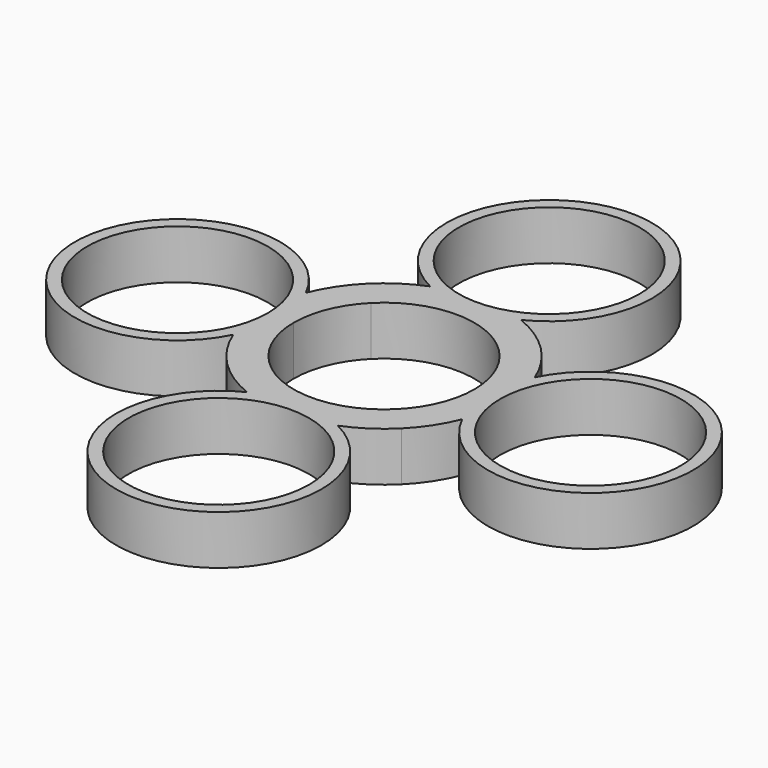
from build123d import *

# Parameters (mm, degrees)
F0_R     = 11
F1_DEPTH = 6


with BuildPart() as f1:
    # F0 (on Top) → F1 (new body)
    with BuildSketch(Plane.XY):
        with BuildLine():
            ThreePointArc((36.158809, 0), (25.158809, 11), (14.158809, 0))
            ThreePointArc((14.158809, 0), (25.158809, -11), (36.158809, 0))
        make_face()
        with Locations((-25.158809, 0)):
            Circle(F0_R)
        with BuildLine():
            ThreePointArc((5.524196, 13.945725), (0, 37.658809), (-5.524196, 13.945725))
            ThreePointArc((-5.524196, 13.945725), (-8.236389, 12.536423), (-10.606602, 10.606602))
            ThreePointArc((-10.606602, 10.606602), (-12.536423, 8.236389), (-13.945725, 5.524196))
            ThreePointArc((-13.945725, 5.524196), (-37.658809, 0), (-13.945725, -5.524196))
            ThreePointArc((-13.945725, -5.524196), (-12.536423, -8.236389), (-10.606602, -10.606602))
            ThreePointArc((-10.606602, -10.606602), (-8.236389, -12.536423), (-5.524196, -13.945725))
            ThreePointArc((-5.524196, -13.945725), (0, -37.658809), (5.524196, -13.945725))
            ThreePointArc((5.524196, -13.945725), (8.236389, -12.536423), (10.606602, -10.606602))
            ThreePointArc((10.606602, -10.606602), (12.536423, -8.236389), (13.945725, -5.524196))
            ThreePointArc((13.945725, -5.524196), (37.658809, 0), (13.945725, 5.524196))
            ThreePointArc((13.945725, 5.524196), (12.536423, 8.236389), (10.606602, 10.606602))
            ThreePointArc((10.606602, 10.606602), (8.236389, 12.536423), (5.524196, 13.945725))
        make_face()
        with Locations((0, -25.158809)):
            Circle(F0_R, mode=Mode.SUBTRACT)
        with Locations((-25.158809, 0)):
            Circle(F0_R, mode=Mode.SUBTRACT)
        with BuildLine():
            ThreePointArc((-7.778175, 7.778175), (0, 11), (7.778175, 7.778175))
            ThreePointArc((7.778175, 7.778175), (10.162675, 4.209518), (11, 0))
            ThreePointArc((11, 0), (10.162675, -4.209518), (7.778175, -7.778175))
            ThreePointArc((7.778175, -7.778175), (0, -11), (-7.778175, -7.778175))
            ThreePointArc((-7.778175, -7.778175), (-10.162675, -4.209518), (-11, 0))
            ThreePointArc((-11, 0), (-10.162675, 4.209518), (-7.778175, 7.778175))
        make_face(mode=Mode.SUBTRACT)
        with BuildLine():
            ThreePointArc((36.158809, 0), (25.158809, -11), (14.158809, 0))
            ThreePointArc((14.158809, 0), (25.158809, 11), (36.158809, 0))
        make_face(mode=Mode.SUBTRACT)
        with Locations((0, 25.158809)):
            Circle(F0_R, mode=Mode.SUBTRACT)
    extrude(amount=F1_DEPTH)


solid = f1.part
